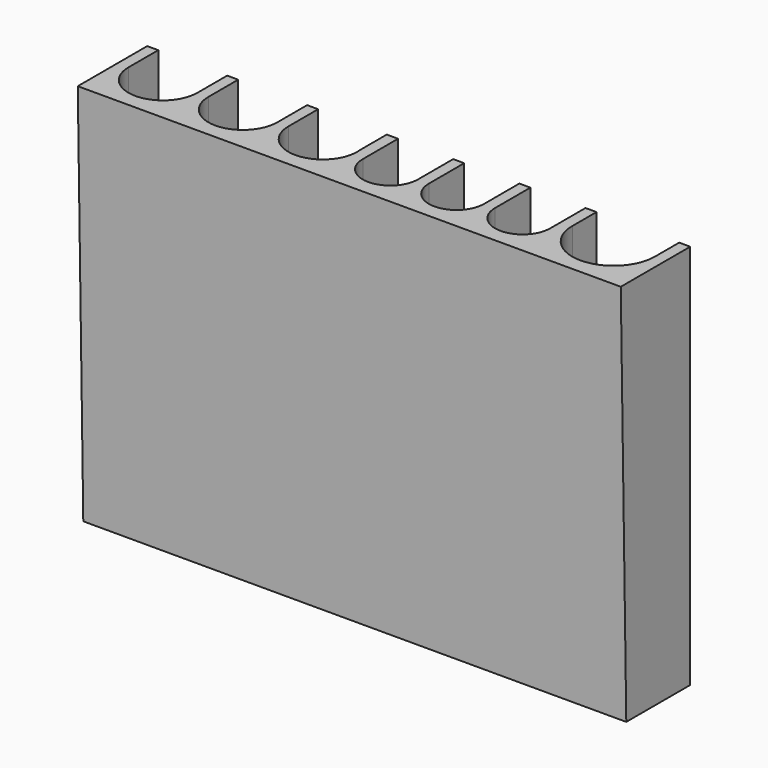
from build123d import *

# Parameters (mm, degrees)
F1_DEPTH = 60
F2_DEPTH = 80
F4_DEPTH = 197
F5_DEPTH = 197


with BuildPart() as f1:
    # F0 (on Top) → F1 (new body)
    with BuildSketch(Plane.XY):
        with BuildLine():
            Line((-176, 30), (-180, 30))
            Line((-180, 30), (-180, 0))
            Line((-180, 0), (0, 0))
            Line((0, 0), (17, 0))
            Line((17, 0), (17, 30))
            Line((17, 30), (13, 30))
            Line((13, 30), (13, 19))
            ThreePointArc((13, 19), (-2, 4), (-17, 19))
            Line((-17, 19), (-17, 30))
            Line((-17, 30), (-21, 30))
            Line((-21, 30), (-21, 14))
            ThreePointArc((-21, 14), (-23.417125, 7.480798), (-29.5, 4.11314))
            ThreePointArc((-29.5, 4.11314), (-31, 4), (-32.5, 4.11314))
            ThreePointArc((-32.5, 4.11314), (-38.582875, 7.480798), (-41, 14))
            Line((-41, 14), (-41, 30))
            Line((-41, 30), (-45, 30))
            Line((-45, 30), (-45, 14))
            ThreePointArc((-45, 14), (-47.417125, 7.480798), (-53.5, 4.11314))
            ThreePointArc((-53.5, 4.11314), (-55, 4), (-56.5, 4.11314))
            ThreePointArc((-56.5, 4.11314), (-62.582875, 7.480798), (-65, 14))
            Line((-65, 14), (-65, 30))
            Line((-65, 30), (-69, 30))
            Line((-69, 30), (-69, 14))
            ThreePointArc((-69, 14), (-71.417125, 7.480798), (-77.5, 4.11314))
            ThreePointArc((-77.5, 4.11314), (-79, 4), (-80.5, 4.11314))
            ThreePointArc((-80.5, 4.11314), (-86.582875, 7.480798), (-89, 14))
            Line((-89, 14), (-89, 30))
            Line((-89, 30), (-93.103136, 30))
            Line((-93.103136, 30), (-93.103136, 18.102423))
            ThreePointArc((-93.103136, 18.102423), (-95.479622, 9.027248), (-103.5, 4.161037))
            ThreePointArc((-103.5, 4.161037), (-105.5, 4), (-107.5, 4.161037))
            ThreePointArc((-107.5, 4.161037), (-115.019716, 8.399074), (-118, 16.5))
            Line((-118, 16.5), (-118, 30))
            Line((-118, 30), (-122, 30))
            Line((-122, 30), (-122, 16.5))
            ThreePointArc((-122, 16.5), (-124.980284, 8.399074), (-132.5, 4.161037))
            ThreePointArc((-132.5, 4.161037), (-134.5, 4), (-136.5, 4.161037))
            ThreePointArc((-136.5, 4.161037), (-144.019716, 8.399074), (-147, 16.5))
            Line((-147, 16.5), (-147, 30))
            Line((-147, 30), (-151, 30))
            Line((-151, 30), (-151, 16.5))
            ThreePointArc((-151, 16.5), (-153.980284, 8.399074), (-161.5, 4.161037))
            ThreePointArc((-161.5, 4.161037), (-163.5, 4), (-165.5, 4.161037))
            ThreePointArc((-165.5, 4.161037), (-173.019716, 8.399074), (-176, 16.5))
            Line((-176, 16.5), (-176, 30))
        make_face()
    extrude(amount=F1_DEPTH)

    # F0 (on Top) → F2 (join)
    with BuildSketch(Plane.XY):
        with BuildLine():
            Line((-176, 30), (-180, 30))
            Line((-180, 30), (-180, 0))
            Line((-180, 0), (0, 0))
            Line((0, 0), (17, 0))
            Line((17, 0), (17, 30))
            Line((17, 30), (13, 30))
            Line((13, 30), (13, 19))
            ThreePointArc((13, 19), (-2, 4), (-17, 19))
            Line((-17, 19), (-17, 30))
            Line((-17, 30), (-21, 30))
            Line((-21, 30), (-21, 14))
            ThreePointArc((-21, 14), (-23.417125, 7.480798), (-29.5, 4.11314))
            ThreePointArc((-29.5, 4.11314), (-31, 4), (-32.5, 4.11314))
            ThreePointArc((-32.5, 4.11314), (-38.582875, 7.480798), (-41, 14))
            Line((-41, 14), (-41, 30))
            Line((-41, 30), (-45, 30))
            Line((-45, 30), (-45, 14))
            ThreePointArc((-45, 14), (-47.417125, 7.480798), (-53.5, 4.11314))
            ThreePointArc((-53.5, 4.11314), (-55, 4), (-56.5, 4.11314))
            ThreePointArc((-56.5, 4.11314), (-62.582875, 7.480798), (-65, 14))
            Line((-65, 14), (-65, 30))
            Line((-65, 30), (-69, 30))
            Line((-69, 30), (-69, 14))
            ThreePointArc((-69, 14), (-71.417125, 7.480798), (-77.5, 4.11314))
            ThreePointArc((-77.5, 4.11314), (-79, 4), (-80.5, 4.11314))
            ThreePointArc((-80.5, 4.11314), (-86.582875, 7.480798), (-89, 14))
            Line((-89, 14), (-89, 30))
            Line((-89, 30), (-93.103136, 30))
            Line((-93.103136, 30), (-93.103136, 18.102423))
            ThreePointArc((-93.103136, 18.102423), (-95.479622, 9.027248), (-103.5, 4.161037))
            ThreePointArc((-103.5, 4.161037), (-105.5, 4), (-107.5, 4.161037))
            ThreePointArc((-107.5, 4.161037), (-115.019716, 8.399074), (-118, 16.5))
            Line((-118, 16.5), (-118, 30))
            Line((-118, 30), (-122, 30))
            Line((-122, 30), (-122, 16.5))
            ThreePointArc((-122, 16.5), (-124.980284, 8.399074), (-132.5, 4.161037))
            ThreePointArc((-132.5, 4.161037), (-134.5, 4), (-136.5, 4.161037))
            ThreePointArc((-136.5, 4.161037), (-144.019716, 8.399074), (-147, 16.5))
            Line((-147, 16.5), (-147, 30))
            Line((-147, 30), (-151, 30))
            Line((-151, 30), (-151, 16.5))
            ThreePointArc((-151, 16.5), (-153.980284, 8.399074), (-161.5, 4.161037))
            ThreePointArc((-161.5, 4.161037), (-163.5, 4), (-165.5, 4.161037))
            ThreePointArc((-165.5, 4.161037), (-173.019716, 8.399074), (-176, 16.5))
            Line((-176, 16.5), (-176, 30))
        make_face()
        with BuildLine():
            Line((-165.5, 30), (-176, 30))
            Line((-176, 30), (-176, 16.5))
            ThreePointArc((-176, 16.5), (-173.019716, 8.399074), (-165.5, 4.161037))
            Line((-165.5, 4.161037), (-165.5, 8.647036))
            Line((-165.5, 8.647036), (-165.5, 30))
        make_face()
        with BuildLine():
            Line((-151, 30), (-161.5, 30))
            Line((-161.5, 30), (-161.5, 11.134194))
            Line((-161.5, 11.134194), (-161.5, 4.161037))
            ThreePointArc((-161.5, 4.161037), (-153.980284, 8.399074), (-151, 16.5))
            Line((-151, 16.5), (-151, 30))
        make_face()
        with BuildLine():
            Line((-136.5, 30), (-147, 30))
            Line((-147, 30), (-147, 16.5))
            ThreePointArc((-147, 16.5), (-144.019716, 8.399074), (-136.5, 4.161037))
            Line((-136.5, 4.161037), (-136.5, 13.265696))
            Line((-136.5, 13.265696), (-136.5, 30))
        make_face()
        with BuildLine():
            Line((-122, 30), (-132.5, 30))
            Line((-132.5, 30), (-132.5, 14.049987))
            Line((-132.5, 14.049987), (-132.5, 4.161037))
            ThreePointArc((-132.5, 4.161037), (-124.980284, 8.399074), (-122, 16.5))
            Line((-122, 16.5), (-122, 30))
        make_face()
        with BuildLine():
            Line((-107.5, 30), (-118, 30))
            Line((-118, 30), (-118, 16.5))
            ThreePointArc((-118, 16.5), (-115.019716, 8.399074), (-107.5, 4.161037))
            Line((-107.5, 4.161037), (-107.5, 11.18967))
            Line((-107.5, 11.18967), (-107.5, 30))
        make_face()
        with BuildLine():
            Line((-93.103136, 30), (-103.5, 30))
            Line((-103.5, 30), (-103.5, 10.63935))
            Line((-103.5, 10.63935), (-103.5, 4.161037))
            ThreePointArc((-103.5, 4.161037), (-95.479622, 9.027248), (-93.103136, 18.102423))
            Line((-93.103136, 18.102423), (-93.103136, 30))
        make_face()
        with BuildLine():
            Line((-80.5, 30), (-89, 30))
            Line((-89, 30), (-89, 14))
            ThreePointArc((-89, 14), (-86.582875, 7.480798), (-80.5, 4.11314))
            Line((-80.5, 4.11314), (-80.5, 18.017488))
            Line((-80.5, 18.017488), (-80.5, 30))
        make_face()
        with BuildLine():
            Line((-69, 30), (-77.5, 30))
            Line((-77.5, 30), (-77.5, 17.524529))
            Line((-77.5, 17.524529), (-77.5, 4.11314))
            ThreePointArc((-77.5, 4.11314), (-71.417125, 7.480798), (-69, 14))
            Line((-69, 14), (-69, 30))
        make_face()
        with BuildLine():
            Line((-56.5, 10.179425), (-56.5, 30))
            Line((-56.5, 30), (-65, 30))
            Line((-65, 30), (-65, 14))
            ThreePointArc((-65, 14), (-62.582875, 7.480798), (-56.5, 4.11314))
            Line((-56.5, 4.11314), (-56.5, 10.179425))
        make_face()
        with BuildLine():
            Line((-45, 14), (-45, 30))
            Line((-45, 30), (-53.5, 30))
            Line((-53.5, 30), (-53.5, 10.014313))
            Line((-53.5, 10.014313), (-53.5, 4.11314))
            ThreePointArc((-53.5, 4.11314), (-47.417125, 7.480798), (-45, 14))
        make_face()
        with BuildLine():
            Line((-32.5, 17.372157), (-32.5, 30))
            Line((-32.5, 30), (-41, 30))
            Line((-41, 30), (-41, 14))
            ThreePointArc((-41, 14), (-38.582875, 7.480798), (-32.5, 4.11314))
            Line((-32.5, 4.11314), (-32.5, 17.372157))
        make_face()
        with BuildLine():
            Line((-21, 14), (-21, 30))
            Line((-21, 30), (-29.5, 30))
            Line((-29.5, 30), (-29.5, 17.21671))
            Line((-29.5, 17.21671), (-29.5, 4.11314))
            ThreePointArc((-29.5, 4.11314), (-23.417125, 7.480798), (-21, 14))
        make_face()
    extrude(amount=-F2_DEPTH)

    # F3 (on face) → F4 (join, through all)
    with BuildSketch(Plane(origin=(-180, 0, 0), x_dir=(0, -1, 0), z_dir=(-1, 0, 0))):
        Polygon((0, -24), (1.5, 60), (0, 60), align=None)
    extrude(amount=-F4_DEPTH)

    # F3 (on face) → F5 (cut, through all)
    with BuildSketch(Plane(origin=(-180, 0, 0), x_dir=(0, -1, 0), z_dir=(-1, 0, 0))):
        Polygon((0, -80), (0, -24), (-1, -80), align=None)
    extrude(amount=-F5_DEPTH, mode=Mode.SUBTRACT)


solid = f1.part
